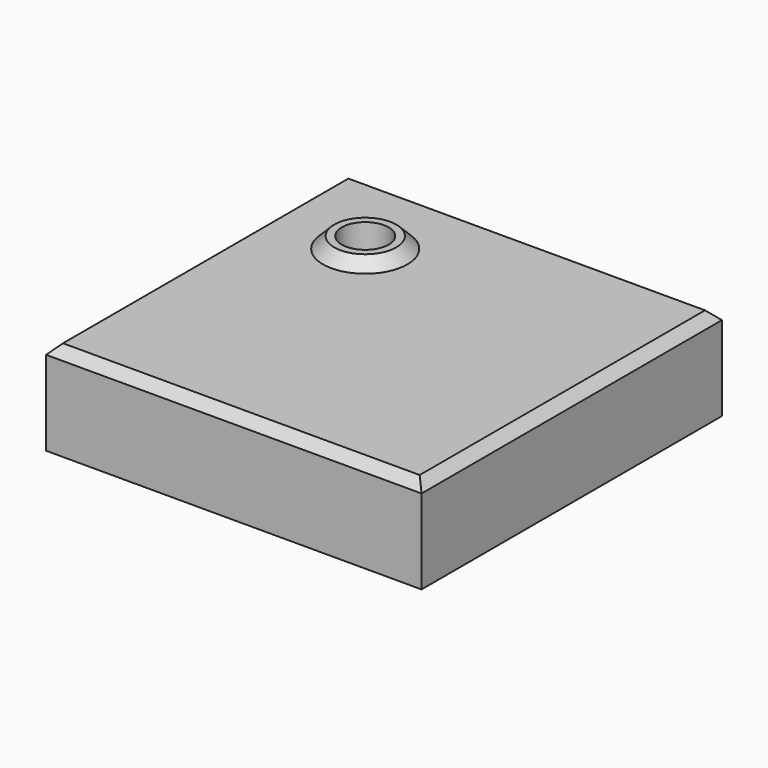
from build123d import *

# Parameters (mm, degrees)
SKETCH_W     = 40
SKETCH_H     = 40
SKETCH_R     = 2.5
PAD_DEPTH    = 10
CHAMFER_SIZE = 1


with BuildPart() as part:
    # Sketch → Pad (new body)
    with BuildSketch(Plane.XY):
        Rectangle(SKETCH_W, SKETCH_H)
        with Locations((-10, 10)):
            Circle(SKETCH_R, mode=Mode.SUBTRACT)
    extrude(amount=PAD_DEPTH)

    # Sketch001 → Revolution (revolve)
    with BuildSketch(Plane(origin=(-10, 10, 0), x_dir=(1, 0, 0), z_dir=(0, -1, 0))):
        Polygon((2.5, 11.2), (3.3, 11.2), (4.5, 10), (2.5, 10), align=None)
    revolve(axis=Axis((-10, 10, 0), (0, 0, 1)))

    # Chamfer
    chamfer_edges = [part.edges().sort_by_distance(p)[0] for p in [
        (0, -20, 10),
        (-20, 0, 10),
        (0, 20, 10),
        (20, 0, 10),
    ]]
    chamfer(chamfer_edges, length=CHAMFER_SIZE)


solid = part.part
